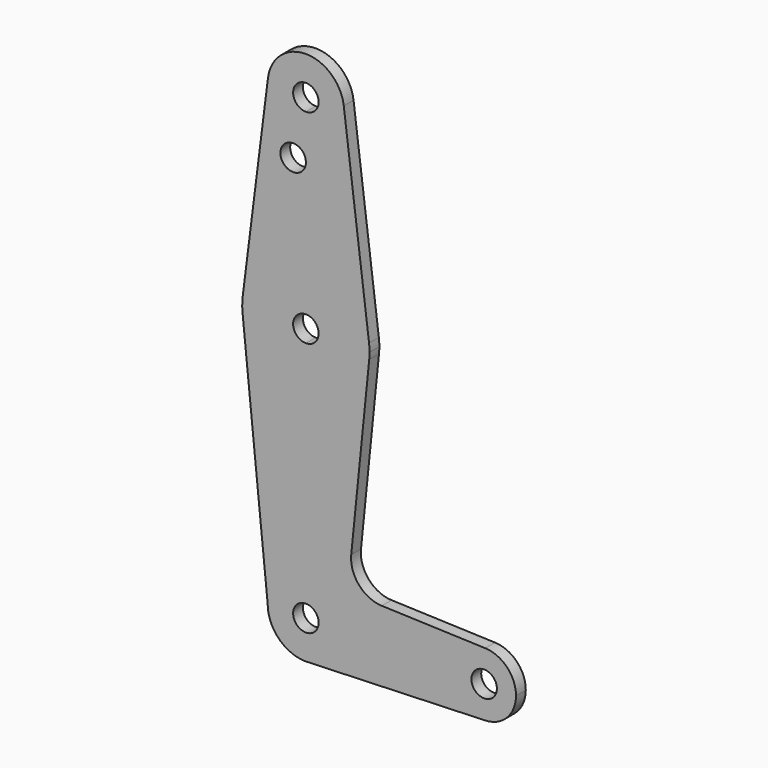
from build123d import *

# Parameters (mm, degrees)
F0_R     = 3.175
F1_DEPTH = 3.048


with BuildPart() as f1:
    # F0 (on Front) → F1 (new body)
    with BuildSketch(Plane.XZ):
        with BuildLine():
            ThreePointArc((9.525, 114.3), (6.7351920908, 107.5648079092), (0, 104.775))
            Line((0, 104.775), (0, 100.0252))
            Line((0, 100.0252), (0, 79.375))
            ThreePointArc((0, 79.375), (10.5003255158, 75.40625), (15.7504882737, 65.484375))
            Line((15.7504882737, 65.484375), (9.4502929642, 115.490625))
            ThreePointArc((9.4502929642, 115.490625), (9.5063048942, 114.896483242), (9.525, 114.3))
        make_face()
        with BuildLine():
            Line((0, 100.0252), (0, 104.775))
            ThreePointArc((0, 104.775), (-7.14375, 107.9998046905), (-9.4502929642, 115.490625))
            Line((-9.4502929642, 115.490625), (-15.7504882737, 65.484375))
            ThreePointArc((-15.7504882737, 65.484375), (-10.5003255158, 75.40625), (0, 79.375))
            Line((0, 79.375), (0, 100.0252))
        make_face()
        with Locations((-3.175, 100.0252)):
            Circle(F0_R, mode=Mode.SUBTRACT)
        with BuildLine():
            ThreePointArc((-9.4502929642, 115.490625), (-7.14375, 107.9998046905), (0, 104.775))
            ThreePointArc((0, 104.775), (6.7351920908, 107.5648079092), (9.525, 114.3))
            ThreePointArc((9.525, 114.3), (9.5063048942, 114.896483242), (9.4502929642, 115.490625))
            ThreePointArc((9.4502929642, 115.490625), (0, 123.825), (-9.4502929642, 115.490625))
        make_face()
        with BuildLine():
            ThreePointArc((3.175, 114.3), (2.2450640303, 112.0549359697), (0, 111.125))
            ThreePointArc((0, 111.125), (-2.2450640303, 116.5450640303), (3.175, 114.3))
        make_face(mode=Mode.SUBTRACT)
        with BuildLine():
            ThreePointArc((15.7504882737, 65.484375), (10.5003255158, 75.40625), (0, 79.375))
            Line((0, 79.375), (0, 66.675))
            ThreePointArc((0, 66.675), (2.2450640303, 65.7450640303), (3.175, 63.5))
            ThreePointArc((3.175, 63.5), (2.2450640303, 61.2549359697), (0, 60.325))
            Line((0, 60.325), (0, 47.625))
            ThreePointArc((0, 47.625), (10.644756084, 51.722700101), (15.7942028036, 61.9003804205))
            ThreePointArc((15.7942028036, 61.9003804205), (15.8547878338, 62.6991705884), (15.875, 63.5))
            ThreePointArc((15.875, 63.5), (15.8438414904, 64.4941387366), (15.7504882737, 65.484375))
        make_face()
        with BuildLine():
            ThreePointArc((15.7942028036, 61.9003804205), (10.644756084, 51.722700101), (0, 47.625))
            Line((0, 47.625), (0, 9.525))
            ThreePointArc((0, 9.525), (6.7351920908, 6.7351920908), (9.525, 0))
            Line((9.525, 0), (36.5125, 0))
            ThreePointArc((36.5125, 0), (38.9380895153, 5.7116327839), (44.7324052746, 7.9324746146))
            Line((44.7324052746, 7.9324746146), (18.9341027877, 8.850924033))
            ThreePointArc((18.9341027877, 8.850924033), (13.2249738114, 11.5709798305), (11.3072231466, 17.5971800924))
            Line((11.3072231466, 17.5971800924), (15.7942028036, 61.9003804205))
        make_face()
        with BuildLine():
            ThreePointArc((0, 47.625), (-10.644756084, 51.722700101), (-15.7942028036, 61.9003804205))
            Line((-15.7942028036, 61.9003804205), (-9.525, 0))
            ThreePointArc((-9.525, 0), (-6.7351920908, 6.7351920908), (0, 9.525))
            Line((0, 9.525), (0, 47.625))
        make_face()
        with BuildLine():
            Line((0, 66.675), (0, 79.375))
            ThreePointArc((0, 79.375), (-10.5003255158, 75.40625), (-15.7504882737, 65.484375))
            ThreePointArc((-15.7504882737, 65.484375), (-15.8738192656, 63.6936154008), (-15.7942028036, 61.9003804205))
            ThreePointArc((-15.7942028036, 61.9003804205), (-10.644756084, 51.722700101), (0, 47.625))
            Line((0, 47.625), (0, 60.325))
            ThreePointArc((0, 60.325), (-3.175, 63.5), (0, 66.675))
        make_face()
        with BuildLine():
            ThreePointArc((9.525, 0), (6.7351920908, 6.7351920908), (0, 9.525))
            Line((0, 9.525), (0, 3.175))
            ThreePointArc((0, 3.175), (2.2450640303, 2.2450640303), (3.175, 0))
            Line((3.175, 0), (9.525, 0))
        make_face()
        with BuildLine():
            ThreePointArc((0, 9.525), (-6.7351920908, 6.7351920908), (-9.525, 0))
            ThreePointArc((-9.525, 0), (-6.7351920908, -6.7351920908), (0, -9.525))
            Line((0, -9.525), (0.6773435479, -9.500885786))
            ThreePointArc((0.6773435479, -9.500885786), (6.9705567315, -6.4912990883), (9.525, 0))
            Line((9.525, 0), (3.175, 0))
            ThreePointArc((3.175, 0), (-2.2450640303, -2.2450640303), (0, 3.175))
            Line((0, 3.175), (0, 9.525))
        make_face()
        with BuildLine():
            ThreePointArc((44.7324052746, 7.9324746146), (38.9380895153, 5.7116327839), (36.5125, 0))
            ThreePointArc((36.5125, 0), (38.9380895153, -5.7116327839), (44.7324052746, -7.9324746146))
            ThreePointArc((44.7324052746, -7.9324746146), (50.1616327839, -5.5119104847), (52.3875, 0))
            ThreePointArc((52.3875, 0), (50.1616327839, 5.5119104847), (44.7324052746, 7.9324746146))
        make_face()
        with BuildLine():
            ThreePointArc((47.625, 0), (44.45, -3.175), (41.275, 0))
            ThreePointArc((41.275, 0), (44.45, 3.175), (47.625, 0))
        make_face(mode=Mode.SUBTRACT)
        with BuildLine():
            Line((36.5125, 0), (9.525, 0))
            ThreePointArc((9.525, 0), (6.9705567315, -6.4912990883), (0.6773435479, -9.500885786))
            Line((0.6773435479, -9.500885786), (44.7324052746, -7.9324746146))
            ThreePointArc((44.7324052746, -7.9324746146), (38.9380895153, -5.7116327839), (36.5125, 0))
        make_face()
    extrude(amount=F1_DEPTH)


solid = f1.part
